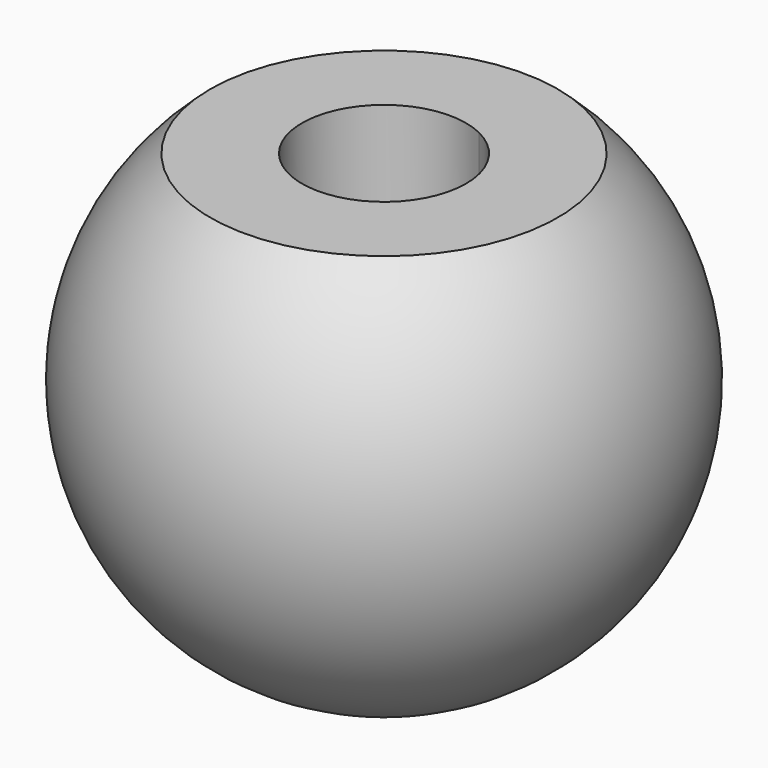
from build123d import *

# Parameters (mm, degrees)
F3_DEPTH = 20
F5_DEPTH = 7


with BuildPart() as f1:
    # F0 (on Front) → F1 (revolve)
    with BuildSketch(Plane.XZ):
        with BuildLine():
            Line((0, 0), (0, 8.53))
            ThreePointArc((0, 8.53), (-8.53, 0), (0, -8.53))
            Line((0, -8.53), (0, 0))
        make_face()
    revolve(axis=Axis((0, 0, 4.265), (0, 0, 1)))

    # F2 (on Front) → F3 (cut, symmetric)
    with BuildSketch(Plane.XZ):
        Polygon((-44.582818, 6.42), (0, 6.42), (47.697775, 6.42), (0, 28.326638), align=None)
        Polygon((-44.582818, 6.42), (0, 6.42), (47.697775, 6.42), (0, 28.326638), align=None)
    extrude(amount=F3_DEPTH, both=True, mode=Mode.SUBTRACT)

    # F4 (on face) → F5 (cut)
    with BuildSketch(Plane.XY.offset(6.42)):
        with BuildLine():
            ThreePointArc((1.151499, 2.386745), (-2.244323, -1.409083), (2.65, 0))
            ThreePointArc((2.65, 0), (2.244323, 1.409083), (1.151499, 2.386745))
        make_face()
    extrude(amount=-F5_DEPTH, mode=Mode.SUBTRACT)


solid = f1.part
